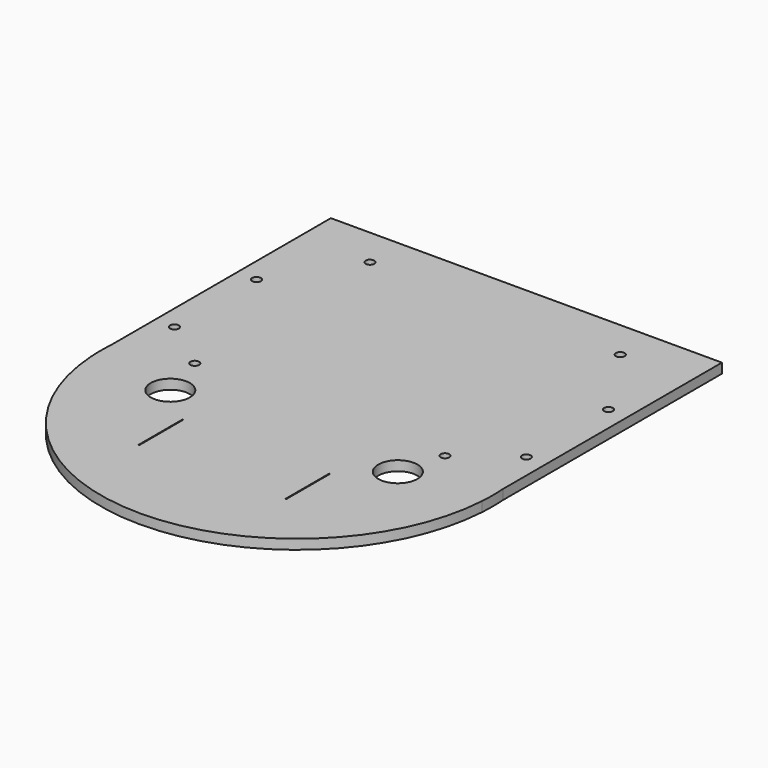
from build123d import *

# Parameters (mm, degrees)
F0_W     = 0.254
F0_H     = 17.78
F0_R     = 6.35
F0_R_2   = 1.4224
F1_DEPTH = 3.175


with BuildPart() as f1:
    # F0 (on Top) → F1 (new body)
    with BuildSketch(Plane.XY):
        with BuildLine():
            Line((63.5, 0), (63.5, 88.9))
            Line((63.5, 88.9), (-63.5, 88.9))
            Line((-63.5, 88.9), (-63.5, 0))
            Line((-63.5, 0), (-63.5, -8.594495))
            ThreePointArc((-63.5, -8.594495), (0, -67.942486), (63.5, -8.594495))
            Line((63.5, -8.594495), (63.5, 0))
        make_face()
        with Locations((-23.6855, -29.842486)):
            Rectangle(F0_W, F0_H, mode=Mode.SUBTRACT)
        with Locations((-36.2585, -10.325997)):
            Circle(F0_R, mode=Mode.SUBTRACT)
        with Locations((-40.64, 5.08)):
            Circle(F0_R_2, mode=Mode.SUBTRACT)
        with Locations((23.9395, -29.842486)):
            Rectangle(F0_W, F0_H, mode=Mode.SUBTRACT)
        with Locations((36.7665, -9.239232)):
            Circle(F0_R, mode=Mode.SUBTRACT)
        with Locations((40.64, 5.08)):
            Circle(F0_R_2, mode=Mode.SUBTRACT)
        with Locations((-57.15, 17.4498)):
            Circle(F0_R_2, mode=Mode.SUBTRACT)
        with Locations((-57.15, 50.8)):
            Circle(F0_R_2, mode=Mode.SUBTRACT)
        with Locations((-40.64, 76.2)):
            Circle(F0_R_2, mode=Mode.SUBTRACT)
        with Locations((57.15, 17.4498)):
            Circle(F0_R_2, mode=Mode.SUBTRACT)
        with Locations((57.15, 50.8)):
            Circle(F0_R_2, mode=Mode.SUBTRACT)
        with Locations((40.64, 76.2)):
            Circle(F0_R_2, mode=Mode.SUBTRACT)
        with BuildLine():
            ThreePointArc((63.5, -8.594495), (63.645238, -4.297248), (63.5, 0))
            Line((63.5, 0), (63.5, -8.594495))
        make_face()
        with BuildLine():
            Line((-63.5, -8.594495), (-63.5, 0))
            ThreePointArc((-63.5, 0), (-63.645238, -4.297248), (-63.5, -8.594495))
        make_face()
    extrude(amount=F1_DEPTH)


solid = f1.part
